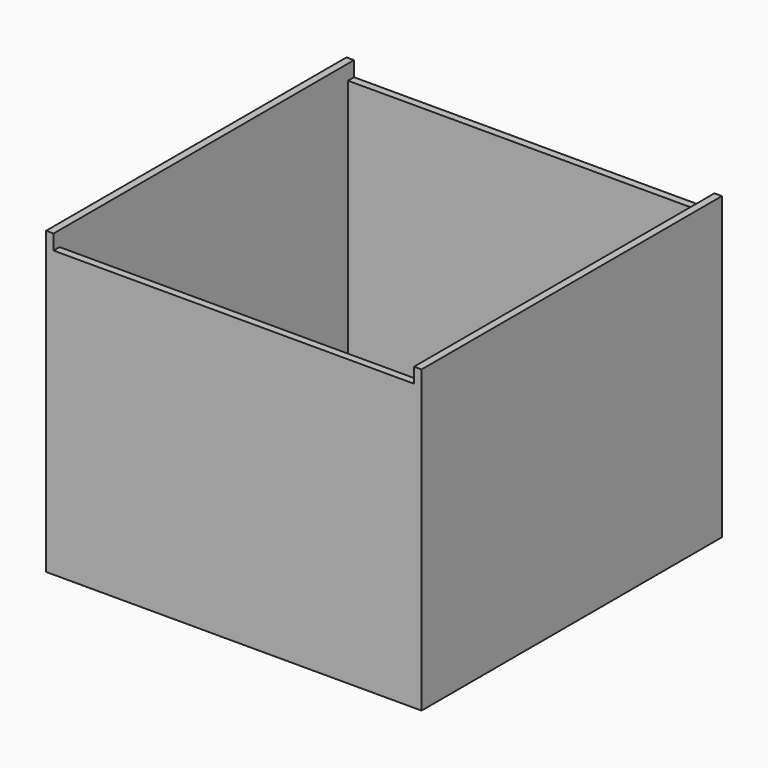
from build123d import *

# Parameters (mm, degrees)
F0_W     = 60.96
F0_H     = 60.96
F0_R     = 6.35
F1_DEPTH = 2.54
F2_DEPTH = 50.8
F0_H_2   = 1.27
F3_DEPTH = 48.26


with BuildPart() as f1:
    # F0 (on Top) → F1 (new body)
    with BuildSketch(Plane.XY):
        Rectangle(F0_W, F0_H)
        Circle(F0_R, mode=Mode.SUBTRACT)
    extrude(amount=F1_DEPTH)

    # F0 (on Top) → F2 (join)
    with BuildSketch(Plane.XY):
        Polygon((-30.48, -30.48), (-30.48, 30.48), (-30.48, 31.75), (-31.75, 31.75), (-31.75, -31.75), (-30.48, -31.75), align=None)
        Polygon((30.48, 31.75), (30.48, 30.48), (30.48, -30.48), (30.48, -31.75), (31.75, -31.75), (31.75, 31.75), align=None)
    extrude(amount=F2_DEPTH)

    # F0 (on Top) → F3 (join)
    with BuildSketch(Plane.XY):
        with Locations((0, -31.115)):
            Rectangle(F0_W, F0_H_2)
        with Locations((0, 31.115)):
            Rectangle(F0_W, F0_H_2)
    extrude(amount=F3_DEPTH)


solid = f1.part
